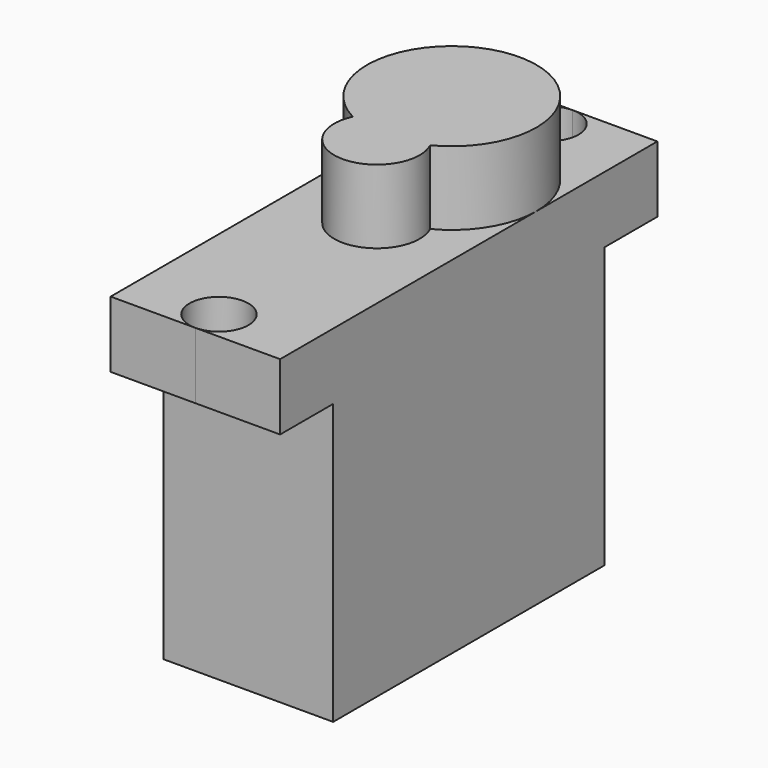
from build123d import *

# Parameters (mm, degrees)
SKETCH_R     = 5.75
PAD_DEPTH    = 5
SKETCH001_R  = 2.9
PAD001_DEPTH = 5
SKETCH002_W  = 11.5
SKETCH002_H  = 23
PAD002_DEPTH = 23.5
SKETCH003_W  = 11.5
SKETCH003_H  = 32
PAD003_DEPTH = 4.5
SKETCH004_R  = 2
POCKET_DEPTH = 23.501


with BuildPart() as part:
    # Sketch → Pad (new body)
    with BuildSketch(Plane.XY):
        Circle(SKETCH_R)
    extrude(amount=PAD_DEPTH)

    # Sketch001 → Pad001 (join)
    with BuildSketch(Plane.XY):
        with Locations((0, -6.35)):
            Circle(SKETCH001_R)
    extrude(amount=PAD001_DEPTH)

    # Sketch002 → Pad002 (join)
    with BuildSketch(Plane.XY):
        with Locations((0, -5.75)):
            Rectangle(SKETCH002_W, SKETCH002_H)
    extrude(amount=-PAD002_DEPTH)

    # Sketch003 → Pad003 (join)
    with BuildSketch(Plane.XY):
        with Locations((0, -5.75)):
            Rectangle(SKETCH003_W, SKETCH003_H)
    extrude(amount=-PAD003_DEPTH)

    # Sketch004 → Pocket (cut, through all)
    with BuildSketch(Plane.XY):
        with Locations((0, 8.25)):
            Circle(SKETCH004_R)
        with Locations((0, -19.75)):
            Circle(SKETCH004_R)
    extrude(amount=-POCKET_DEPTH, mode=Mode.SUBTRACT)


with BuildPart() as part_1:
    # Body placement: moved
    add(part.part.moved(Location((0, 0, -1))))


solid = part_1.part
